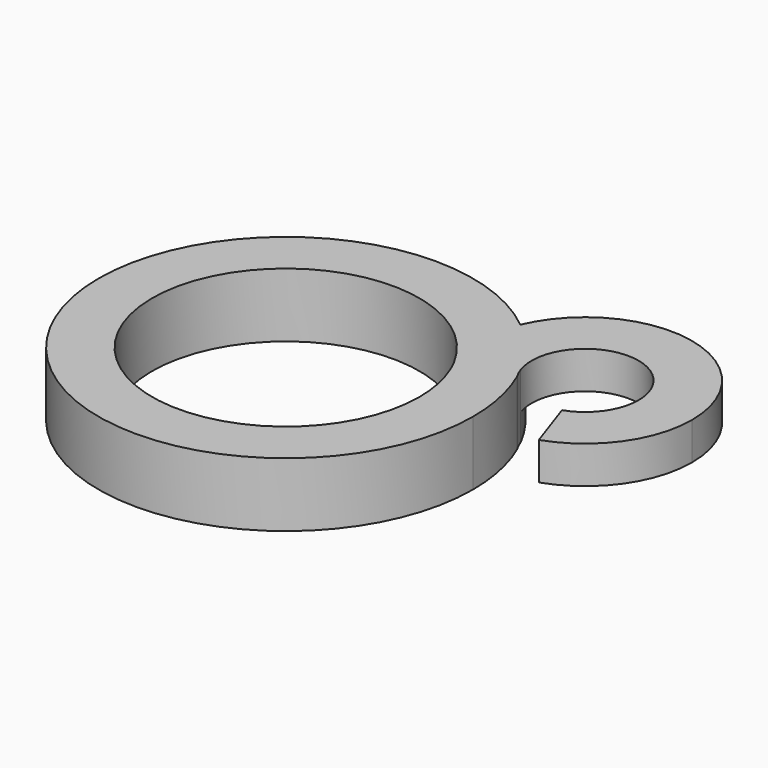
from build123d import *

# Parameters (mm, degrees)
F1_DEPTH = 2.4
F2_DEPTH = 1


with BuildPart() as f1:
    # F0 (on Top) → F1 (new body)
    with BuildSketch(Plane.XY):
        with BuildLine():
            ThreePointArc((6.2364408078, 3.1791203265), (5.4557408837, 4.3857600721), (4.4450679147, 5.4075291247))
            ThreePointArc((4.4450679147, 5.4075291247), (4.1248628557, 3.8877917046), (4.4076455939, 2.3606482835))
            ThreePointArc((4.4076455939, 2.3606482835), (4.5207987432, 2.1359725475), (4.6225083364, 1.9058899968))
            Line((4.6225083364, 1.9058899968), (6.3735347613, 2.8722783552))
            ThreePointArc((6.3735347613, 2.8722783552), (6.2985312404, 3.0228146209), (6.2364408078, 3.1791203265))
        make_face()
        with BuildLine():
            ThreePointArc((12.1245611862, 3.8386667137), (8.9251943462, 7.7577210056), (4.4450679147, 5.4075291247))
            ThreePointArc((4.4450679147, 5.4075291247), (5.4557408837, 4.3857600721), (6.2364408078, 3.1791203265))
            ThreePointArc((6.2364408078, 3.1791203265), (7.7900770735, 5.8104984454), (10.1245611862, 3.8386667137))
            ThreePointArc((10.1245611862, 3.8386667137), (9.7517195067, 2.6757583768), (8.7722053863, 1.9464307373))
            Line((8.7722053863, 1.9464307373), (9.4198495864, 0.054194761))
            ThreePointArc((9.4198495864, 0.054194761), (11.3788778273, 1.51285004), (12.1245611862, 3.8386667137))
        make_face()
        with BuildLine():
            ThreePointArc((4.4450679147, 5.4075291247), (-6.3291182404, -2.9903615666), (7, 0))
            ThreePointArc((7, 0), (5.6226632008, 0.717688266), (4.6225083364, 1.9058899968))
            ThreePointArc((4.6225083364, 1.9058899968), (4.9047192418, 0.9714572348), (5, 0))
            ThreePointArc((5, 0), (-4.8496509137, -1.2169166016), (4.4076455939, 2.3606482835))
            ThreePointArc((4.4076455939, 2.3606482835), (4.1248628557, 3.8877917046), (4.4450679147, 5.4075291247))
        make_face()
        with BuildLine():
            ThreePointArc((4.6225083364, 1.9058899968), (5.6226632008, 0.717688266), (7, 0))
            ThreePointArc((7, 0), (6.8524662966, 1.4295823353), (6.416084099, 2.7989042203))
            ThreePointArc((6.416084099, 2.7989042203), (6.3944204178, 2.8353657012), (6.3735347613, 2.8722783552))
            Line((6.3735347613, 2.8722783552), (4.6225083364, 1.9058899968))
        make_face()
    extrude(amount=F1_DEPTH)

    # F0 (on Top) → F2 (cut)
    with BuildSketch(Plane.XY):
        with BuildLine():
            ThreePointArc((12.1245611862, 3.8386667137), (8.9251943462, 7.7577210056), (4.4450679147, 5.4075291247))
            ThreePointArc((4.4450679147, 5.4075291247), (5.4557408837, 4.3857600721), (6.2364408078, 3.1791203265))
            ThreePointArc((6.2364408078, 3.1791203265), (7.7900770735, 5.8104984454), (10.1245611862, 3.8386667137))
            ThreePointArc((10.1245611862, 3.8386667137), (9.7517195067, 2.6757583768), (8.7722053863, 1.9464307373))
            Line((8.7722053863, 1.9464307373), (9.4198495864, 0.054194761))
            ThreePointArc((9.4198495864, 0.054194761), (11.3788778273, 1.51285004), (12.1245611862, 3.8386667137))
        make_face()
    extrude(amount=F2_DEPTH, mode=Mode.SUBTRACT)


solid = f1.part
